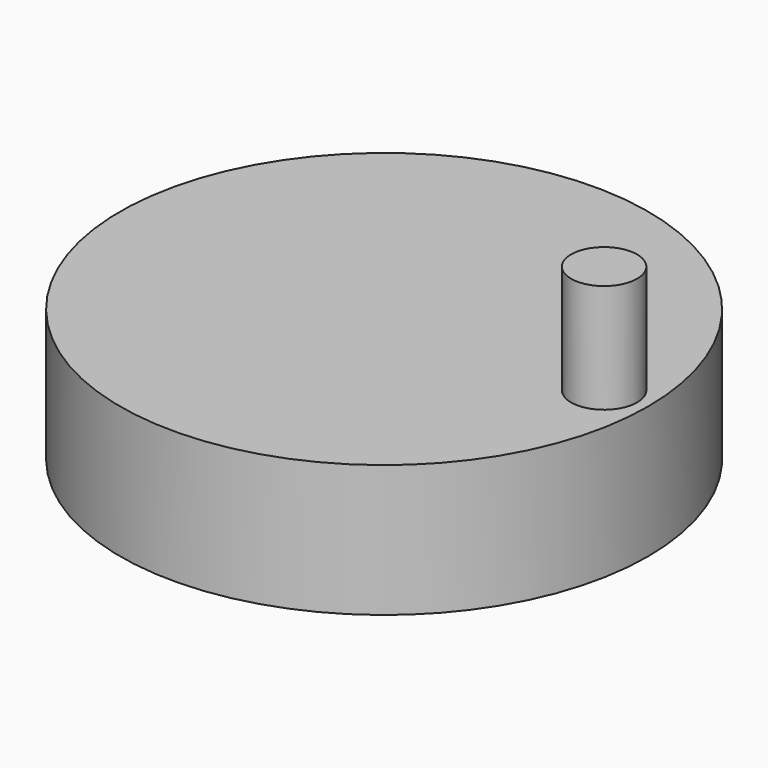
from build123d import *

# Parameters (mm, degrees)
CYLINDER032_R     = 1.5
CYLINDER032_DEPTH = 5.2
CYLINDER026_R     = 1.2
CYLINDER026_DEPTH = 4.8
CYLINDER028_R     = 1.2
CYLINDER028_DEPTH = 4.8
CYLINDER024_R     = 1.2
CYLINDER024_DEPTH = 4.8
CYLINDER031_R     = 1.2
CYLINDER031_DEPTH = 4.8
CYLINDER023_R     = 10.5
CYLINDER023_DEPTH = 5
CYLINDER022_R     = 12
CYLINDER022_DEPTH = 6


with BuildPart() as cylinder032:
    # Cylinder032 → Cylinder032 (new body)
    with BuildSketch(Plane(origin=(10, 0, 4.3), x_dir=(1, 0, 0), z_dir=(0, 0, 1))):
        Circle(CYLINDER032_R)
    extrude(amount=CYLINDER032_DEPTH)


with BuildPart() as cylinder026:
    # Cylinder026 → Cylinder026 (new body)
    with BuildSketch(Plane(origin=(0, -6.8, -1), x_dir=(1, 0, 0), z_dir=(0, 0, 1))):
        Circle(CYLINDER026_R)
    extrude(amount=CYLINDER026_DEPTH)


with BuildPart() as cylinder028:
    # Cylinder028 → Cylinder028 (new body)
    with BuildSketch(Plane(origin=(6.303301, -0.003301, -1), x_dir=(1, 0, 0), z_dir=(0, 0, 1))):
        Circle(CYLINDER028_R)
    extrude(amount=CYLINDER028_DEPTH)


with BuildPart() as cylinder024:
    # Cylinder024 → Cylinder024 (new body)
    with BuildSketch(Plane(origin=(0, 6.3, -1), x_dir=(1, 0, 0), z_dir=(0, 0, 1))):
        Circle(CYLINDER024_R)
    extrude(amount=CYLINDER024_DEPTH)


with BuildPart() as cylinder031:
    # Cylinder031 → Cylinder031 (new body)
    with BuildSketch(Plane(origin=(-6.296699, -0.003301, -1), x_dir=(1, 0, 0), z_dir=(0, 0, 1))):
        Circle(CYLINDER031_R)
    extrude(amount=CYLINDER031_DEPTH)


with BuildPart() as cylinder023:
    # Cylinder023 → Cylinder023 (new body)
    with BuildSketch(Plane.XY.offset(-1.5)):
        Circle(CYLINDER023_R)
    extrude(amount=CYLINDER023_DEPTH)


with BuildPart() as fusion008:
    # Cylinder022 → Cylinder022 (new body)
    with BuildSketch(Plane.XY.offset(-1.45)):
        Circle(CYLINDER022_R)
    extrude(amount=CYLINDER022_DEPTH)

    # Cut014: cut Cylinder023
    add(cylinder023.part, mode=Mode.SUBTRACT)

    # Fusion007: union Cylinder026, Cylinder028, Cylinder024, Cylinder031
    add(cylinder026.part)
    add(cylinder028.part)
    add(cylinder024.part)
    add(cylinder031.part)

    # Fusion008: union Cylinder032
    add(cylinder032.part)


solid = fusion008.part
